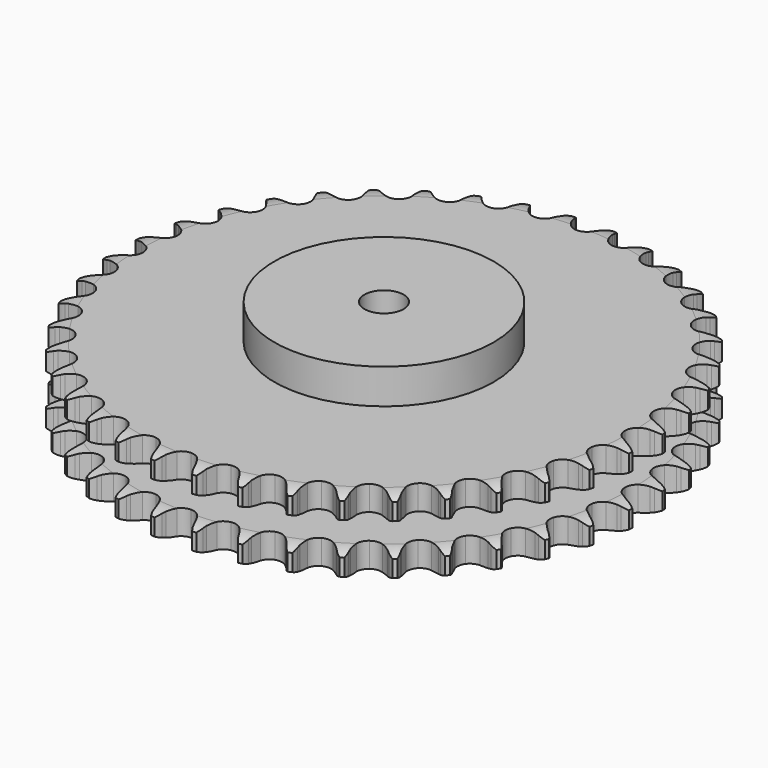
from build123d import *

# Parameters (mm, degrees)
PAD_DEPTH         = 47.7
SKETCH001_R       = 70
PAD001_DEPTH      = 70
SKETCH002_R       = 12.5
POCKET_DEPTH      = 0.001
POCKET_DEPTH_BACK = 70.001


with BuildPart() as part:
    # Sprocket → Pad (new body)
    with BuildSketch(Plane.XY):
        with BuildLine():
            ThreePointArc((-13.341244, 169.516578), (-11.398709, 167.207398), (-10.046444, 164.509783))
            Line((-10.046444, 164.509783), (-9.272265, 162.371136))
            ThreePointArc((-9.272265, 162.371136), (-8.049996, 159.632311), (-6.445164, 157.098614))
            ThreePointArc((-6.445164, 157.098614), (-3.608799, 154.708058), (0, 153.849985))
            ThreePointArc((0, 153.849985), (3.608799, 154.708058), (6.445164, 157.098614))
            ThreePointArc((6.445164, 157.098614), (8.049996, 159.632311), (9.272265, 162.371136))
            Line((9.272265, 162.371136), (10.046444, 164.509783))
            ThreePointArc((10.046444, 164.509783), (11.398709, 167.207398), (13.341244, 169.516578))
            ThreePointArc((13.341244, 169.516578), (14.898627, 166.931949), (15.812244, 164.056004))
            Line((15.812244, 164.056004), (16.242334, 161.82258))
            ThreePointArc((16.242334, 161.82258), (17.021108, 158.926269), (18.209825, 156.172715))
            ThreePointArc((18.209825, 156.172715), (20.637303, 153.367886), (24.06744, 151.955836))
            ThreePointArc((24.06744, 151.955836), (27.766041, 152.238804), (30.941451, 154.156224))
            Line((30.941451, 154.156224), (34.55855, 158.921576))
            ThreePointArc((34.55855, 158.921576), (35.080812, 159.932273), (35.657756, 160.912784))
            ThreePointArc((35.657756, 160.912784), (37.415372, 163.365647), (39.695226, 165.342517))
            ThreePointArc((39.695226, 165.342517), (40.829111, 162.546081), (41.281582, 159.562623))
            Line((41.281582, 159.562623), (41.356992, 157.289415))
            ThreePointArc((41.356992, 157.289415), (41.673095, 154.306935), (42.416427, 151.401326))
            ThreePointArc((42.416427, 151.401326), (44.375247, 148.251287), (47.54226, 146.32003))
            ThreePointArc((47.54226, 146.32003), (51.239591, 146.020926), (54.675856, 147.417996))
            Line((54.675856, 147.417996), (58.993888, 151.55884))
            ThreePointArc((58.993888, 151.55884), (59.667829, 152.475393), (60.391055, 153.353579))
            ThreePointArc((60.391055, 153.353579), (62.510745, 155.501291), (65.07178, 157.097175))
            ThreePointArc((65.07178, 157.097175), (65.754246, 154.157789), (65.734431, 151.14028))
            Line((65.734431, 151.14028), (65.453305, 148.883262))
            ThreePointArc((65.453305, 148.883262), (65.298953, 145.888052), (65.578596, 142.901933))
            ThreePointArc((65.578596, 142.901933), (67.020525, 139.48425), (69.846431, 137.08134))
            ThreePointArc((69.846431, 137.08134), (73.451452, 136.207528), (77.063961, 137.049847))
            Line((77.063961, 137.049847), (81.976602, 140.464222))
            ThreePointArc((81.976602, 140.464222), (82.785625, 141.264063), (83.637326, 142.018299))
            ThreePointArc((83.637326, 142.018299), (86.066895, 143.807977), (88.846051, 144.983579))
            ThreePointArc((88.846051, 144.983579), (89.060293, 141.97362), (88.56868, 138.996362))
            Line((88.56868, 138.996362), (87.937939, 136.811109))
            ThreePointArc((87.937939, 136.811109), (87.316934, 133.876921), (87.126002, 130.883821))
            ThreePointArc((87.126002, 130.883821), (88.015535, 127.282647), (90.430752, 124.467252))
            ThreePointArc((90.430752, 124.467252), (93.854695, 123.040249), (97.554496, 123.307077))
            Line((97.554496, 123.307077), (102.940779, 125.910908))
            ThreePointArc((102.940779, 125.910908), (103.864965, 126.574343), (104.824168, 127.186058))
            ThreePointArc((104.824168, 127.186058), (107.503792, 128.573633), (110.432638, 129.300006))
            ThreePointArc((110.432638, 129.300006), (110.17338, 126.29359), (109.222074, 123.429892))
            Line((109.222074, 123.429892), (108.25725, 121.370213))
            ThreePointArc((108.25725, 121.370213), (107.184882, 118.569296), (106.528077, 115.642914))
            ThreePointArc((106.528077, 115.642914), (106.84331, 111.946923), (108.788367, 108.788367))
            ThreePointArc((108.788367, 108.788367), (111.946923, 106.84331), (115.642914, 106.528077))
            Line((115.642914, 106.528077), (121.370213, 108.25725))
            ThreePointArc((121.370213, 108.25725), (122.386805, 108.767943), (123.429892, 109.222074))
            ThreePointArc((123.429892, 109.222074), (126.29359, 110.17338), (129.300006, 110.432638))
            ThreePointArc((129.300006, 110.432638), (128.573633, 107.503792), (127.186058, 104.824168))
            Line((127.186058, 104.824168), (125.910908, 102.940779))
            ThreePointArc((125.910908, 102.940779), (124.413583, 100.342102), (123.307077, 97.554496))
            ThreePointArc((123.307077, 97.554496), (123.040249, 93.854695), (124.467252, 90.430752))
            ThreePointArc((124.467252, 90.430752), (127.282647, 88.015535), (130.883821, 87.126002))
            Line((130.883821, 87.126002), (136.811109, 87.937939))
            ThreePointArc((136.811109, 87.937939), (137.895075, 88.283314), (138.996362, 88.56868))
            ThreePointArc((138.996362, 88.56868), (141.97362, 89.060293), (144.983579, 88.846051))
            ThreePointArc((144.983579, 88.846051), (143.807977, 86.066895), (142.018299, 83.637326))
            Line((142.018299, 83.637326), (140.464222, 81.976602))
            ThreePointArc((140.464222, 81.976602), (138.578809, 79.644152), (137.049847, 77.063961))
            ThreePointArc((137.049847, 77.063961), (136.207528, 73.451452), (137.08134, 69.846431))
            ThreePointArc((137.08134, 69.846431), (139.48425, 67.020525), (142.901933, 65.578596))
            Line((142.901933, 65.578596), (148.883262, 65.453305))
            ThreePointArc((148.883262, 65.453305), (150.007911, 65.624858), (151.14028, 65.734431))
            ThreePointArc((151.14028, 65.734431), (154.157789, 65.754246), (157.097175, 65.07178))
            ThreePointArc((157.097175, 65.07178), (155.501291, 62.510745), (153.353579, 60.391055))
            Line((153.353579, 60.391055), (151.55884, 58.993888))
            ThreePointArc((151.55884, 58.993888), (149.331764, 56.985098), (147.417996, 54.675856))
            ThreePointArc((147.417996, 54.675856), (146.020926, 51.239591), (146.32003, 47.54226))
            ThreePointArc((146.32003, 47.54226), (148.251287, 44.375247), (151.401326, 42.416427))
            Line((151.401326, 42.416427), (157.289415, 41.356992))
            ThreePointArc((157.289415, 41.356992), (158.427054, 41.3505), (159.562623, 41.281582))
            ThreePointArc((159.562623, 41.281582), (162.546081, 40.829111), (165.342517, 39.695226))
            ThreePointArc((165.342517, 39.695226), (163.365647, 37.415372), (160.912784, 35.657756))
            Line((160.912784, 35.657756), (158.921576, 34.55855))
            ThreePointArc((158.921576, 34.55855), (156.407675, 32.922883), (154.156224, 30.941451))
            ThreePointArc((154.156224, 30.941451), (152.238804, 27.766041), (151.955836, 24.06744))
            ThreePointArc((151.955836, 24.06744), (153.367886, 20.637303), (156.172715, 18.209825))
            Line((156.172715, 18.209825), (161.82258, 16.242334))
            ThreePointArc((161.82258, 16.242334), (162.945197, 16.057955), (164.056004, 15.812244))
            ThreePointArc((164.056004, 15.812244), (166.931949, 14.898627), (169.516578, 13.341244))
            ThreePointArc((169.516578, 13.341244), (167.207398, 11.398709), (164.509783, 10.046444))
            Line((164.509783, 10.046444), (162.371136, 9.272265))
            ThreePointArc((162.371136, 9.272265), (159.632311, 8.049996), (157.098614, 6.445164))
            ThreePointArc((157.098614, 6.445164), (154.708058, 3.608799), (153.849985, 0))
            ThreePointArc((153.849985, 0), (154.708058, -3.608799), (157.098614, -6.445164))
            Line((157.098614, -6.445164), (162.371136, -9.272265))
            ThreePointArc((162.371136, -9.272265), (163.451089, -9.62999), (164.509783, -10.046444))
            ThreePointArc((164.509783, -10.046444), (167.207398, -11.398709), (169.516578, -13.341244))
            ThreePointArc((169.516578, -13.341244), (166.931949, -14.898627), (164.056004, -15.812244))
            Line((164.056004, -15.812244), (161.82258, -16.242334))
            ThreePointArc((161.82258, -16.242334), (158.926269, -17.021108), (156.172715, -18.209825))
            ThreePointArc((156.172715, -18.209825), (153.367886, -20.637303), (151.955836, -24.06744))
            ThreePointArc((151.955836, -24.06744), (152.238804, -27.766041), (154.156224, -30.941451))
            Line((154.156224, -30.941451), (158.921576, -34.55855))
            ThreePointArc((158.921576, -34.55855), (159.932273, -35.080812), (160.912784, -35.657756))
            ThreePointArc((160.912784, -35.657756), (163.365647, -37.415372), (165.342517, -39.695226))
            ThreePointArc((165.342517, -39.695226), (162.546081, -40.829111), (159.562623, -41.281582))
            Line((159.562623, -41.281582), (157.289415, -41.356992))
            ThreePointArc((157.289415, -41.356992), (154.306935, -41.673095), (151.401326, -42.416427))
            ThreePointArc((151.401326, -42.416427), (148.251287, -44.375247), (146.32003, -47.54226))
            ThreePointArc((146.32003, -47.54226), (146.020926, -51.239591), (147.417996, -54.675856))
            Line((147.417996, -54.675856), (151.55884, -58.993888))
            ThreePointArc((151.55884, -58.993888), (152.475393, -59.667829), (153.353579, -60.391055))
            ThreePointArc((153.353579, -60.391055), (155.501291, -62.510745), (157.097175, -65.07178))
            ThreePointArc((157.097175, -65.07178), (154.157789, -65.754246), (151.14028, -65.734431))
            Line((151.14028, -65.734431), (148.883262, -65.453305))
            ThreePointArc((148.883262, -65.453305), (145.888052, -65.298953), (142.901933, -65.578596))
            ThreePointArc((142.901933, -65.578596), (139.48425, -67.020525), (137.08134, -69.846431))
            ThreePointArc((137.08134, -69.846431), (136.207528, -73.451452), (137.049847, -77.063961))
            Line((137.049847, -77.063961), (140.464222, -81.976602))
            ThreePointArc((140.464222, -81.976602), (141.264063, -82.785625), (142.018299, -83.637326))
            ThreePointArc((142.018299, -83.637326), (143.807977, -86.066895), (144.983579, -88.846051))
            ThreePointArc((144.983579, -88.846051), (141.97362, -89.060293), (138.996362, -88.56868))
            Line((138.996362, -88.56868), (136.811109, -87.937939))
            ThreePointArc((136.811109, -87.937939), (133.876921, -87.316934), (130.883821, -87.126002))
            ThreePointArc((130.883821, -87.126002), (127.282647, -88.015535), (124.467252, -90.430752))
            ThreePointArc((124.467252, -90.430752), (123.040249, -93.854695), (123.307077, -97.554496))
            Line((123.307077, -97.554496), (125.910908, -102.940779))
            ThreePointArc((125.910908, -102.940779), (126.574343, -103.864965), (127.186058, -104.824168))
            ThreePointArc((127.186058, -104.824168), (128.573633, -107.503792), (129.300006, -110.432638))
            ThreePointArc((129.300006, -110.432638), (126.29359, -110.17338), (123.429892, -109.222074))
            Line((123.429892, -109.222074), (121.370213, -108.25725))
            ThreePointArc((121.370213, -108.25725), (118.569296, -107.184882), (115.642914, -106.528077))
            ThreePointArc((115.642914, -106.528077), (111.946923, -106.84331), (108.788367, -108.788367))
            ThreePointArc((108.788367, -108.788367), (106.84331, -111.946923), (106.528077, -115.642914))
            Line((106.528077, -115.642914), (108.25725, -121.370213))
            ThreePointArc((108.25725, -121.370213), (108.767943, -122.386805), (109.222074, -123.429892))
            ThreePointArc((109.222074, -123.429892), (110.17338, -126.29359), (110.432638, -129.300006))
            ThreePointArc((110.432638, -129.300006), (107.503792, -128.573633), (104.824168, -127.186058))
            Line((104.824168, -127.186058), (102.940779, -125.910908))
            ThreePointArc((102.940779, -125.910908), (100.342102, -124.413583), (97.554496, -123.307077))
            ThreePointArc((97.554496, -123.307077), (93.854695, -123.040249), (90.430752, -124.467252))
            ThreePointArc((90.430752, -124.467252), (88.015535, -127.282647), (87.126002, -130.883821))
            Line((87.126002, -130.883821), (87.937939, -136.811109))
            ThreePointArc((87.937939, -136.811109), (88.283314, -137.895075), (88.56868, -138.996362))
            ThreePointArc((88.56868, -138.996362), (89.060293, -141.97362), (88.846051, -144.983579))
            ThreePointArc((88.846051, -144.983579), (86.066895, -143.807977), (83.637326, -142.018299))
            Line((83.637326, -142.018299), (81.976602, -140.464222))
            ThreePointArc((81.976602, -140.464222), (79.644152, -138.578809), (77.063961, -137.049847))
            ThreePointArc((77.063961, -137.049847), (73.451452, -136.207528), (69.846431, -137.08134))
            ThreePointArc((69.846431, -137.08134), (67.020525, -139.48425), (65.578596, -142.901933))
            Line((65.578596, -142.901933), (65.453305, -148.883262))
            ThreePointArc((65.453305, -148.883262), (65.624858, -150.007911), (65.734431, -151.14028))
            ThreePointArc((65.734431, -151.14028), (65.754246, -154.157789), (65.07178, -157.097175))
            ThreePointArc((65.07178, -157.097175), (62.510745, -155.501291), (60.391055, -153.353579))
            Line((60.391055, -153.353579), (58.993888, -151.55884))
            ThreePointArc((58.993888, -151.55884), (56.985098, -149.331764), (54.675856, -147.417996))
            ThreePointArc((54.675856, -147.417996), (51.239591, -146.020926), (47.54226, -146.32003))
            ThreePointArc((47.54226, -146.32003), (44.375247, -148.251287), (42.416427, -151.401326))
            Line((42.416427, -151.401326), (41.356992, -157.289415))
            ThreePointArc((41.356992, -157.289415), (41.3505, -158.427054), (41.281582, -159.562623))
            ThreePointArc((41.281582, -159.562623), (40.829111, -162.546081), (39.695226, -165.342517))
            ThreePointArc((39.695226, -165.342517), (37.415372, -163.365647), (35.657756, -160.912784))
            Line((35.657756, -160.912784), (34.55855, -158.921576))
            ThreePointArc((34.55855, -158.921576), (32.922883, -156.407675), (30.941451, -154.156224))
            ThreePointArc((30.941451, -154.156224), (27.766041, -152.238804), (24.06744, -151.955836))
            ThreePointArc((24.06744, -151.955836), (20.637303, -153.367886), (18.209825, -156.172715))
            Line((18.209825, -156.172715), (16.242334, -161.82258))
            ThreePointArc((16.242334, -161.82258), (16.057955, -162.945197), (15.812244, -164.056004))
            ThreePointArc((15.812244, -164.056004), (14.898627, -166.931949), (13.341244, -169.516578))
            ThreePointArc((13.341244, -169.516578), (11.398709, -167.207398), (10.046444, -164.509783))
            Line((10.046444, -164.509783), (9.272265, -162.371136))
            ThreePointArc((9.272265, -162.371136), (8.049996, -159.632311), (6.445164, -157.098614))
            ThreePointArc((6.445164, -157.098614), (3.608799, -154.708058), (0, -153.849985))
            ThreePointArc((0, -153.849985), (-3.608799, -154.708058), (-6.445164, -157.098614))
            Line((-6.445164, -157.098614), (-9.272265, -162.371136))
            ThreePointArc((-9.272265, -162.371136), (-9.62999, -163.451089), (-10.046444, -164.509783))
            ThreePointArc((-10.046444, -164.509783), (-11.398709, -167.207398), (-13.341244, -169.516578))
            ThreePointArc((-13.341244, -169.516578), (-14.898627, -166.931949), (-15.812244, -164.056004))
            Line((-15.812244, -164.056004), (-16.242334, -161.82258))
            ThreePointArc((-16.242334, -161.82258), (-17.021108, -158.926269), (-18.209825, -156.172715))
            ThreePointArc((-18.209825, -156.172715), (-20.637303, -153.367886), (-24.06744, -151.955836))
            ThreePointArc((-24.06744, -151.955836), (-27.766041, -152.238804), (-30.941451, -154.156224))
            Line((-30.941451, -154.156224), (-34.55855, -158.921576))
            ThreePointArc((-34.55855, -158.921576), (-35.080812, -159.932273), (-35.657756, -160.912784))
            ThreePointArc((-35.657756, -160.912784), (-37.415372, -163.365647), (-39.695226, -165.342517))
            ThreePointArc((-39.695226, -165.342517), (-40.829111, -162.546081), (-41.281582, -159.562623))
            Line((-41.281582, -159.562623), (-41.356992, -157.289415))
            ThreePointArc((-41.356992, -157.289415), (-41.673095, -154.306935), (-42.416427, -151.401326))
            ThreePointArc((-42.416427, -151.401326), (-44.375247, -148.251287), (-47.54226, -146.32003))
            ThreePointArc((-47.54226, -146.32003), (-51.239591, -146.020926), (-54.675856, -147.417996))
            Line((-54.675856, -147.417996), (-58.993888, -151.55884))
            ThreePointArc((-58.993888, -151.55884), (-59.667829, -152.475393), (-60.391055, -153.353579))
            ThreePointArc((-60.391055, -153.353579), (-62.510745, -155.501291), (-65.07178, -157.097175))
            ThreePointArc((-65.07178, -157.097175), (-65.754246, -154.157789), (-65.734431, -151.14028))
            Line((-65.734431, -151.14028), (-65.453305, -148.883262))
            ThreePointArc((-65.453305, -148.883262), (-65.298953, -145.888052), (-65.578596, -142.901933))
            ThreePointArc((-65.578596, -142.901933), (-67.020525, -139.48425), (-69.846431, -137.08134))
            ThreePointArc((-69.846431, -137.08134), (-73.451452, -136.207528), (-77.063961, -137.049847))
            Line((-77.063961, -137.049847), (-81.976602, -140.464222))
            ThreePointArc((-81.976602, -140.464222), (-82.785625, -141.264063), (-83.637326, -142.018299))
            ThreePointArc((-83.637326, -142.018299), (-86.066895, -143.807977), (-88.846051, -144.983579))
            ThreePointArc((-88.846051, -144.983579), (-89.060293, -141.97362), (-88.56868, -138.996362))
            Line((-88.56868, -138.996362), (-87.937939, -136.811109))
            ThreePointArc((-87.937939, -136.811109), (-87.316934, -133.876921), (-87.126002, -130.883821))
            ThreePointArc((-87.126002, -130.883821), (-88.015535, -127.282647), (-90.430752, -124.467252))
            ThreePointArc((-90.430752, -124.467252), (-93.854695, -123.040249), (-97.554496, -123.307077))
            Line((-97.554496, -123.307077), (-102.940779, -125.910908))
            ThreePointArc((-102.940779, -125.910908), (-103.864965, -126.574343), (-104.824168, -127.186058))
            ThreePointArc((-104.824168, -127.186058), (-107.503792, -128.573633), (-110.432638, -129.300006))
            ThreePointArc((-110.432638, -129.300006), (-110.17338, -126.29359), (-109.222074, -123.429892))
            Line((-109.222074, -123.429892), (-108.25725, -121.370213))
            ThreePointArc((-108.25725, -121.370213), (-107.184882, -118.569296), (-106.528077, -115.642914))
            ThreePointArc((-106.528077, -115.642914), (-106.84331, -111.946923), (-108.788367, -108.788367))
            ThreePointArc((-108.788367, -108.788367), (-111.946923, -106.84331), (-115.642914, -106.528077))
            Line((-115.642914, -106.528077), (-121.370213, -108.25725))
            ThreePointArc((-121.370213, -108.25725), (-122.386805, -108.767943), (-123.429892, -109.222074))
            ThreePointArc((-123.429892, -109.222074), (-126.29359, -110.17338), (-129.300006, -110.432638))
            ThreePointArc((-129.300006, -110.432638), (-128.573633, -107.503792), (-127.186058, -104.824168))
            Line((-127.186058, -104.824168), (-125.910908, -102.940779))
            ThreePointArc((-125.910908, -102.940779), (-124.413583, -100.342102), (-123.307077, -97.554496))
            ThreePointArc((-123.307077, -97.554496), (-123.040249, -93.854695), (-124.467252, -90.430752))
            ThreePointArc((-124.467252, -90.430752), (-127.282647, -88.015535), (-130.883821, -87.126002))
            Line((-130.883821, -87.126002), (-136.811109, -87.937939))
            ThreePointArc((-136.811109, -87.937939), (-137.895075, -88.283314), (-138.996362, -88.56868))
            ThreePointArc((-138.996362, -88.56868), (-141.97362, -89.060293), (-144.983579, -88.846051))
            ThreePointArc((-144.983579, -88.846051), (-143.807977, -86.066895), (-142.018299, -83.637326))
            Line((-142.018299, -83.637326), (-140.464222, -81.976602))
            ThreePointArc((-140.464222, -81.976602), (-138.578809, -79.644152), (-137.049847, -77.063961))
            ThreePointArc((-137.049847, -77.063961), (-136.207528, -73.451452), (-137.08134, -69.846431))
            ThreePointArc((-137.08134, -69.846431), (-139.48425, -67.020525), (-142.901933, -65.578596))
            Line((-142.901933, -65.578596), (-148.883262, -65.453305))
            ThreePointArc((-148.883262, -65.453305), (-150.007911, -65.624858), (-151.14028, -65.734431))
            ThreePointArc((-151.14028, -65.734431), (-154.157789, -65.754246), (-157.097175, -65.07178))
            ThreePointArc((-157.097175, -65.07178), (-155.501291, -62.510745), (-153.353579, -60.391055))
            Line((-153.353579, -60.391055), (-151.55884, -58.993888))
            ThreePointArc((-151.55884, -58.993888), (-149.331764, -56.985098), (-147.417996, -54.675856))
            ThreePointArc((-147.417996, -54.675856), (-146.020926, -51.239591), (-146.32003, -47.54226))
            ThreePointArc((-146.32003, -47.54226), (-148.251287, -44.375247), (-151.401326, -42.416427))
            Line((-151.401326, -42.416427), (-157.289415, -41.356992))
            ThreePointArc((-157.289415, -41.356992), (-158.427054, -41.3505), (-159.562623, -41.281582))
            ThreePointArc((-159.562623, -41.281582), (-162.546081, -40.829111), (-165.342517, -39.695226))
            ThreePointArc((-165.342517, -39.695226), (-163.365647, -37.415372), (-160.912784, -35.657756))
            Line((-160.912784, -35.657756), (-158.921576, -34.55855))
            ThreePointArc((-158.921576, -34.55855), (-156.407675, -32.922883), (-154.156224, -30.941451))
            ThreePointArc((-154.156224, -30.941451), (-152.238804, -27.766041), (-151.955836, -24.06744))
            ThreePointArc((-151.955836, -24.06744), (-153.367886, -20.637303), (-156.172715, -18.209825))
            Line((-156.172715, -18.209825), (-161.82258, -16.242334))
            ThreePointArc((-161.82258, -16.242334), (-162.945197, -16.057955), (-164.056004, -15.812244))
            ThreePointArc((-164.056004, -15.812244), (-166.931949, -14.898627), (-169.516578, -13.341244))
            ThreePointArc((-169.516578, -13.341244), (-167.207398, -11.398709), (-164.509783, -10.046444))
            Line((-164.509783, -10.046444), (-162.371136, -9.272265))
            ThreePointArc((-162.371136, -9.272265), (-159.632311, -8.049996), (-157.098614, -6.445164))
            ThreePointArc((-157.098614, -6.445164), (-154.708058, -3.608799), (-153.849985, 0))
            ThreePointArc((-153.849985, 0), (-154.708058, 3.608799), (-157.098614, 6.445164))
            Line((-157.098614, 6.445164), (-162.371136, 9.272265))
            ThreePointArc((-162.371136, 9.272265), (-163.451089, 9.62999), (-164.509783, 10.046444))
            ThreePointArc((-164.509783, 10.046444), (-167.207398, 11.398709), (-169.516578, 13.341244))
            ThreePointArc((-169.516578, 13.341244), (-166.931949, 14.898627), (-164.056004, 15.812244))
            Line((-164.056004, 15.812244), (-161.82258, 16.242334))
            ThreePointArc((-161.82258, 16.242334), (-158.926269, 17.021108), (-156.172715, 18.209825))
            ThreePointArc((-156.172715, 18.209825), (-153.367886, 20.637303), (-151.955836, 24.06744))
            ThreePointArc((-151.955836, 24.06744), (-152.238804, 27.766041), (-154.156224, 30.941451))
            Line((-154.156224, 30.941451), (-158.921576, 34.55855))
            ThreePointArc((-158.921576, 34.55855), (-159.932273, 35.080812), (-160.912784, 35.657756))
            ThreePointArc((-160.912784, 35.657756), (-163.365647, 37.415372), (-165.342517, 39.695226))
            ThreePointArc((-165.342517, 39.695226), (-162.546081, 40.829111), (-159.562623, 41.281582))
            Line((-159.562623, 41.281582), (-157.289415, 41.356992))
            ThreePointArc((-157.289415, 41.356992), (-154.306935, 41.673095), (-151.401326, 42.416427))
            ThreePointArc((-151.401326, 42.416427), (-148.251287, 44.375247), (-146.32003, 47.54226))
            ThreePointArc((-146.32003, 47.54226), (-146.020926, 51.239591), (-147.417996, 54.675856))
            Line((-147.417996, 54.675856), (-151.55884, 58.993888))
            ThreePointArc((-151.55884, 58.993888), (-152.475393, 59.667829), (-153.353579, 60.391055))
            ThreePointArc((-153.353579, 60.391055), (-155.501291, 62.510745), (-157.097175, 65.07178))
            ThreePointArc((-157.097175, 65.07178), (-154.157789, 65.754246), (-151.14028, 65.734431))
            Line((-151.14028, 65.734431), (-148.883262, 65.453305))
            ThreePointArc((-148.883262, 65.453305), (-145.888052, 65.298953), (-142.901933, 65.578596))
            ThreePointArc((-142.901933, 65.578596), (-139.48425, 67.020525), (-137.08134, 69.846431))
            ThreePointArc((-137.08134, 69.846431), (-136.207528, 73.451452), (-137.049847, 77.063961))
            Line((-137.049847, 77.063961), (-140.464222, 81.976602))
            ThreePointArc((-140.464222, 81.976602), (-141.264063, 82.785625), (-142.018299, 83.637326))
            ThreePointArc((-142.018299, 83.637326), (-143.807977, 86.066895), (-144.983579, 88.846051))
            ThreePointArc((-144.983579, 88.846051), (-141.97362, 89.060293), (-138.996362, 88.56868))
            Line((-138.996362, 88.56868), (-136.811109, 87.937939))
            ThreePointArc((-136.811109, 87.937939), (-133.876921, 87.316934), (-130.883821, 87.126002))
            ThreePointArc((-130.883821, 87.126002), (-127.282647, 88.015535), (-124.467252, 90.430752))
            ThreePointArc((-124.467252, 90.430752), (-123.040249, 93.854695), (-123.307077, 97.554496))
            Line((-123.307077, 97.554496), (-125.910908, 102.940779))
            ThreePointArc((-125.910908, 102.940779), (-126.574343, 103.864965), (-127.186058, 104.824168))
            ThreePointArc((-127.186058, 104.824168), (-128.573633, 107.503792), (-129.300006, 110.432638))
            ThreePointArc((-129.300006, 110.432638), (-126.29359, 110.17338), (-123.429892, 109.222074))
            Line((-123.429892, 109.222074), (-121.370213, 108.25725))
            ThreePointArc((-121.370213, 108.25725), (-118.569296, 107.184882), (-115.642914, 106.528077))
            ThreePointArc((-115.642914, 106.528077), (-111.946923, 106.84331), (-108.788367, 108.788367))
            ThreePointArc((-108.788367, 108.788367), (-106.84331, 111.946923), (-106.528077, 115.642914))
            Line((-106.528077, 115.642914), (-108.25725, 121.370213))
            ThreePointArc((-108.25725, 121.370213), (-108.767943, 122.386805), (-109.222074, 123.429892))
            ThreePointArc((-109.222074, 123.429892), (-110.17338, 126.29359), (-110.432638, 129.300006))
            ThreePointArc((-110.432638, 129.300006), (-107.503792, 128.573633), (-104.824168, 127.186058))
            Line((-104.824168, 127.186058), (-102.940779, 125.910908))
            ThreePointArc((-102.940779, 125.910908), (-100.342102, 124.413583), (-97.554496, 123.307077))
            ThreePointArc((-97.554496, 123.307077), (-93.854695, 123.040249), (-90.430752, 124.467252))
            ThreePointArc((-90.430752, 124.467252), (-88.015535, 127.282647), (-87.126002, 130.883821))
            Line((-87.126002, 130.883821), (-87.937939, 136.811109))
            ThreePointArc((-87.937939, 136.811109), (-88.283314, 137.895075), (-88.56868, 138.996362))
            ThreePointArc((-88.56868, 138.996362), (-89.060293, 141.97362), (-88.846051, 144.983579))
            ThreePointArc((-88.846051, 144.983579), (-86.066895, 143.807977), (-83.637326, 142.018299))
            Line((-83.637326, 142.018299), (-81.976602, 140.464222))
            ThreePointArc((-81.976602, 140.464222), (-79.644152, 138.578809), (-77.063961, 137.049847))
            ThreePointArc((-77.063961, 137.049847), (-73.451452, 136.207528), (-69.846431, 137.08134))
            ThreePointArc((-69.846431, 137.08134), (-67.020525, 139.48425), (-65.578596, 142.901933))
            Line((-65.578596, 142.901933), (-65.453305, 148.883262))
            ThreePointArc((-65.453305, 148.883262), (-65.624858, 150.007911), (-65.734431, 151.14028))
            ThreePointArc((-65.734431, 151.14028), (-65.754246, 154.157789), (-65.07178, 157.097175))
            ThreePointArc((-65.07178, 157.097175), (-62.510745, 155.501291), (-60.391055, 153.353579))
            Line((-60.391055, 153.353579), (-58.993888, 151.55884))
            ThreePointArc((-58.993888, 151.55884), (-56.985098, 149.331764), (-54.675856, 147.417996))
            ThreePointArc((-54.675856, 147.417996), (-51.239591, 146.020926), (-47.54226, 146.32003))
            ThreePointArc((-47.54226, 146.32003), (-44.375247, 148.251287), (-42.416427, 151.401326))
            Line((-42.416427, 151.401326), (-41.356992, 157.289415))
            ThreePointArc((-41.356992, 157.289415), (-41.3505, 158.427054), (-41.281582, 159.562623))
            ThreePointArc((-41.281582, 159.562623), (-40.829111, 162.546081), (-39.695226, 165.342517))
            ThreePointArc((-39.695226, 165.342517), (-37.415372, 163.365647), (-35.657756, 160.912784))
            Line((-35.657756, 160.912784), (-34.55855, 158.921576))
            ThreePointArc((-34.55855, 158.921576), (-32.922883, 156.407675), (-30.941451, 154.156224))
            ThreePointArc((-30.941451, 154.156224), (-27.766041, 152.238804), (-24.06744, 151.955836))
            ThreePointArc((-24.06744, 151.955836), (-20.637303, 153.367886), (-18.209825, 156.172715))
            Line((-18.209825, 156.172715), (-16.242334, 161.82258))
            ThreePointArc((-16.242334, 161.82258), (-16.057955, 162.945197), (-15.812244, 164.056004))
            ThreePointArc((-15.812244, 164.056004), (-14.898627, 166.931949), (-13.341244, 169.516578))
        make_face()
    extrude(amount=PAD_DEPTH)

    # Sketch → Groove (revolve, cut)
    with BuildSketch(Plane.XZ):
        with BuildLine():
            ThreePointArc((157.325702, 0), (163.026579, 0.632698), (168.45, 2.5))
            Line((168.45, 2.5), (168.45, 13.3))
            ThreePointArc((168.45, 13.3), (163.026579, 15.167302), (157.325702, 15.8))
            Line((70, 15.8), (157.325702, 15.8))
            Line((70, 31.9), (70, 15.8))
            Line((157.325702, 31.9), (70, 31.9))
            ThreePointArc((157.325702, 31.9), (163.026579, 32.532698), (168.45, 34.4))
            Line((168.45, 34.4), (168.45, 45.2))
            ThreePointArc((168.45, 45.2), (163.026579, 47.067302), (157.325702, 47.7))
            Line((157.325702, 47.7), (178.45, 47.7))
            Line((178.45, 47.7), (178.45, 0))
            Line((157.325702, 0), (178.45, 0))
        make_face()
    revolve(axis=Axis((0, 0, 0), (0, 0, 1)), mode=Mode.SUBTRACT)

    # Sketch001 → Pad001 (join)
    with BuildSketch(Plane.XY):
        Circle(SKETCH001_R)
    extrude(amount=PAD001_DEPTH)

    # Sketch002 → Pocket (cut, two sides)
    with BuildSketch(Plane.XY) as pocket_sk:
        Circle(SKETCH002_R)
    extrude(amount=-POCKET_DEPTH, mode=Mode.SUBTRACT)
    extrude(pocket_sk.sketch, amount=POCKET_DEPTH_BACK, mode=Mode.SUBTRACT)


solid = part.part
